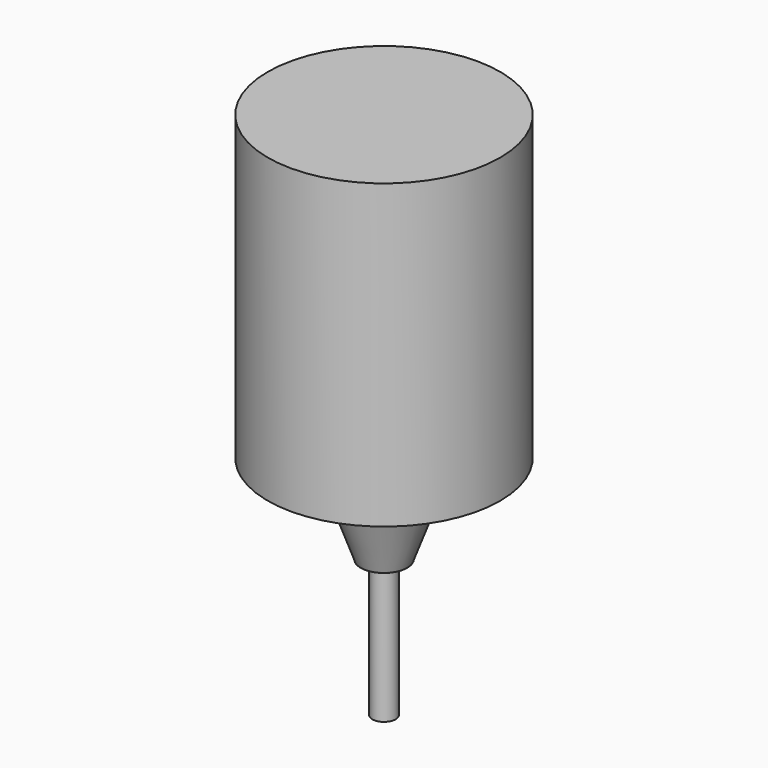
from build123d import *

# Parameters (mm, degrees)
F0_R      = 500
F1_DEPTH  = 1300
F5_R      = 100
F6_DEPTH  = 809
F7_R      = 100
F8_DEPTH  = 384
F9_R      = 50
F10_DEPTH = 590


with BuildPart() as f1:
    # F0 (on Top) → F1 (new body)
    with BuildSketch(Plane.XY):
        Circle(F0_R)
    extrude(amount=F1_DEPTH)

    # F3 (on Front) → F4 (revolve)
    with BuildSketch(Plane.XZ):
        Polygon((0, 0), (0, -656.231495), (238.848731, 0), align=None)
    revolve(axis=Axis((0, 0, -328.115747), (0, 0, -1)))

    # F5 (on face) → F6 (cut)
    with BuildSketch(Plane(origin=(0, 0, 0), x_dir=(1, 0, 0), z_dir=(0, 0, -1))):
        Circle(F5_R)
    extrude(amount=F6_DEPTH, mode=Mode.SUBTRACT)

    # F7 (on face) → F8 (join)
    with BuildSketch(Plane(origin=(0, 0, 0), x_dir=(1, 0, 0), z_dir=(0, 0, -1))):
        Circle(F7_R)
    extrude(amount=F8_DEPTH)

    # F9 (on face) → F10 (join)
    with BuildSketch(Plane(origin=(0, 0, -384), x_dir=(1, 0, 0), z_dir=(0, 0, -1))):
        Circle(F9_R)
    extrude(amount=F10_DEPTH)


solid = f1.part
